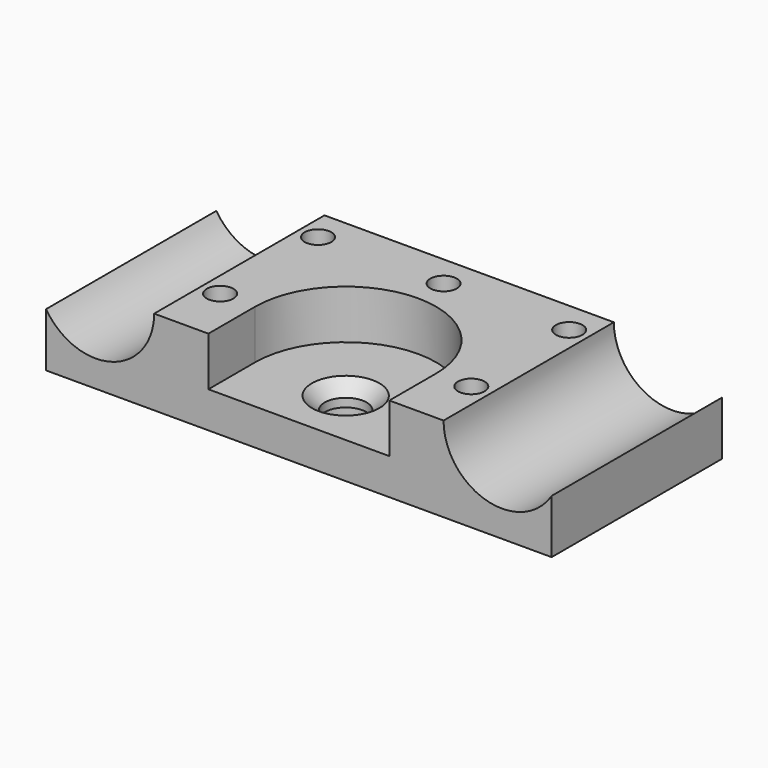
from build123d import *

# Parameters (mm, degrees)
SKETCH_W        = 120.65
SKETCH_H        = 50.8
PAD_DEPTH       = 20.32
POCKET_DEPTH    = 11.684
SKETCH002_R     = 13.97
POCKET001_DEPTH = 50.801
SKETCH003_R     = 3.175
SKETCH003_R_2   = 5
POCKET002_DEPTH = 20.321
SKETCH004_R     = 6.25
POCKET003_DEPTH = 3.556
CHAMFER_SIZE    = 3.048


with BuildPart() as part:
    # Sketch → Pad (new body)
    with BuildSketch(Plane.XY):
        Rectangle(SKETCH_W, SKETCH_H)
    extrude(amount=PAD_DEPTH)

    # Sketch001 (on Face6 of Pad) → Pocket (cut)
    with BuildSketch(Plane.XY.offset(20.32)):
        with BuildLine():
            Line((21.59, -11.43), (21.59, -25.4))
            Line((21.59, -25.4), (-21.59, -25.4))
            Line((-21.59, -25.4), (-21.59, -11.43))
            ThreePointArc((21.59, -11.43), (0, 10.16), (-21.59, -11.43))
        make_face()
    extrude(amount=-POCKET_DEPTH, mode=Mode.SUBTRACT)

    # Sketch002 (on Face6 of Pocket) → Pocket001 (cut, through all)
    with BuildSketch(Plane.XZ.offset(25.4)):
        with Locations((48.5013, 20.32)):
            Circle(SKETCH002_R)
        with Locations((-48.5013, 20.32)):
            Circle(SKETCH002_R)
    extrude(amount=-POCKET001_DEPTH, mode=Mode.SUBTRACT)

    # Sketch003 (on Face5 of Pocket001) → Pocket002 (cut, through all)
    with BuildSketch(Plane.XY.offset(20.32)):
        with Locations((-29.972, 17.78)):
            Circle(SKETCH003_R)
        with Locations((0, 17.78)):
            Circle(SKETCH003_R)
        with Locations((29.972, 17.78)):
            Circle(SKETCH003_R)
        with Locations((-29.972, -11.43)):
            Circle(SKETCH003_R)
        with Locations((0, -11.43)):
            Circle(SKETCH003_R_2)
        with Locations((29.972, -11.43)):
            Circle(SKETCH003_R)
    extrude(amount=-POCKET002_DEPTH, mode=Mode.SUBTRACT)

    # Sketch004 (on Face2 of Pocket002) → Pocket003 (cut)
    with BuildSketch(Plane(origin=(0, 0, 0), x_dir=(1, 0, 0), z_dir=(0, 0, -1))):
        with Locations((0, 11.43)):
            Circle(SKETCH004_R)
    extrude(amount=-POCKET003_DEPTH, mode=Mode.SUBTRACT)

    # Chamfer
    chamfer_edges = [part.edges().sort_by_distance(p)[0] for p in [
        (-5, -11.43, 8.636),
    ]]
    chamfer(chamfer_edges, length=CHAMFER_SIZE)


solid = part.part
